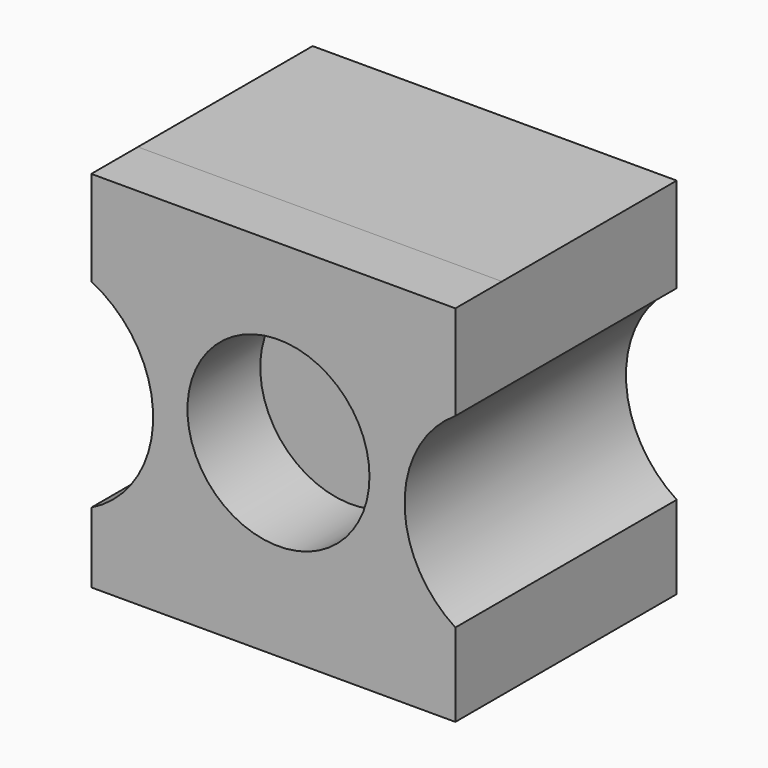
from build123d import *

# Parameters (mm, degrees)
F1_DEPTH = 60
F2_DEPTH = 16
F3_R     = 25
F4_DEPTH = 25


with BuildPart() as f1:
    # F0 (on Front) → F1 (new body)
    with BuildSketch(Plane.XZ):
        with BuildLine():
            Line((53.9789, 42.69307), (-46.0211, 42.69307))
            Line((-46.0211, 42.69307), (-46.0211, 16.677946))
            ThreePointArc((-46.0211, 16.677946), (-29.025216, -10.658838), (-46.0211, -37.995622))
            Line((-46.0211, -37.995622), (-46.0211, -57.30693))
            Line((-46.0211, -57.30693), (53.9789, -57.30693))
            Line((53.9789, -57.30693), (53.9789, -34.484476))
            ThreePointArc((53.9789, -34.484476), (40.033732, -8.903265), (53.9789, 16.677946))
            Line((53.9789, 16.677946), (53.9789, 42.69307))
        make_face()
    extrude(amount=F1_DEPTH)

    # F1_face (on face) → F2 (join)
    with BuildSketch(Plane(origin=(4.695397, -60, -6.963667), x_dir=(1, 0, 0), z_dir=(0, -1, 0))):
        with BuildLine():
            Line((49.283503, 23.641613), (49.283503, 49.656736))
            Line((49.283503, 49.656736), (-50.716497, 49.656736))
            Line((-50.716497, 49.656736), (-50.716497, 23.641613))
            ThreePointArc((-50.716497, 23.641613), (-33.720613, -3.695171), (-50.716497, -31.031955))
            Line((-50.716497, -31.031955), (-50.716497, -50.343264))
            Line((-50.716497, -50.343264), (49.283503, -50.343264))
            Line((49.283503, -50.343264), (49.283503, -27.520809))
            ThreePointArc((49.283503, -27.520809), (35.338335, -1.939598), (49.283503, 23.641613))
        make_face()
    extrude(amount=F2_DEPTH)

    # F3 (on face) → F4 (cut)
    with BuildSketch(Plane.XZ.offset(76)):
        with Locations((5.391599, -5.643175)):
            Circle(F3_R)
    extrude(amount=-F4_DEPTH, mode=Mode.SUBTRACT)


solid = f1.part
